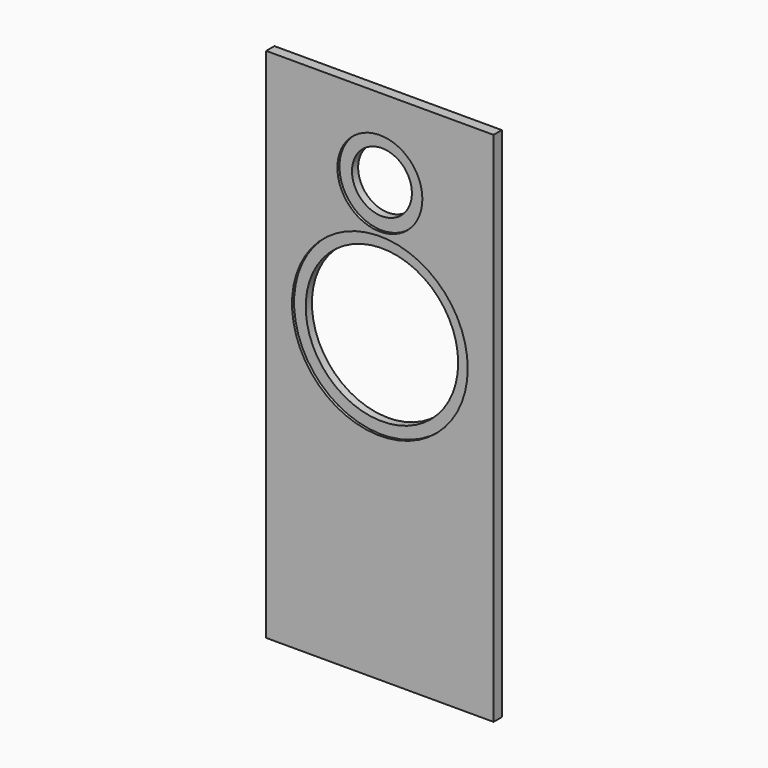
from build123d import *

# Parameters (mm, degrees)
F0_W     = 279.4
F0_H     = 635
F1_DEPTH = 12.7
F2_R     = 52.197
F2_R_2   = 107.95
F3_DEPTH = 3.175
F4_R     = 36.83
F4_R_2   = 93.6625
F5_DEPTH = 12.701


with BuildPart() as f1:
    # F0 (on Front) → F1 (new body)
    with BuildSketch(Plane.XZ):
        with Locations((139.7, 317.5)):
            Rectangle(F0_W, F0_H)
    extrude(amount=F1_DEPTH)

    # F2 (on face) → F3 (cut)
    with BuildSketch(Plane.XZ.offset(12.7)):
        with Locations((139.7, 537.082911)):
            Circle(F2_R)
        with Locations((139.7, 371.982911)):
            Circle(F2_R_2)
    extrude(amount=-F3_DEPTH, mode=Mode.SUBTRACT)

    # F4 (on face) → F5 (cut, through all)
    with BuildSketch(Plane.XZ.offset(12.7)):
        with Locations((139.7, 537.082911)):
            Circle(F4_R)
        with Locations((139.7, 371.982911)):
            Circle(F4_R_2)
    extrude(amount=-F5_DEPTH, mode=Mode.SUBTRACT)


solid = f1.part
